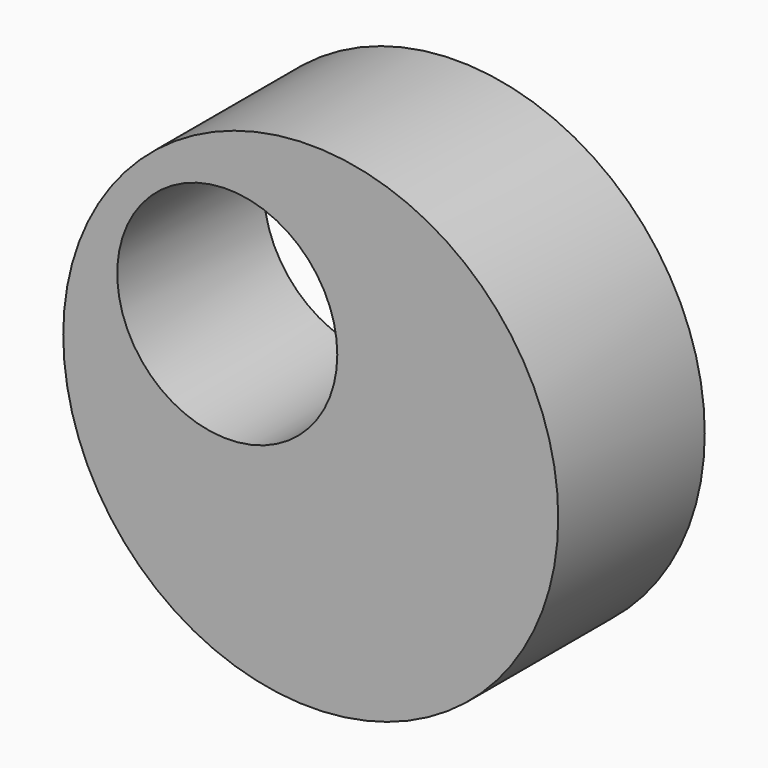
from build123d import *

# Parameters (mm, degrees)
F0_R     = 101.6
F0_R_2   = 45.166546
F1_DEPTH = 75.184


with BuildPart() as f1:
    # F0 (on Front) → F1 (new body)
    with BuildSketch(Plane.XZ):
        with Locations((22.148628, -0.177396)):
            Circle(F0_R)
        with Locations((-12.115592, 29.250144)):
            Circle(F0_R_2, mode=Mode.SUBTRACT)
    extrude(amount=-F1_DEPTH)


solid = f1.part
